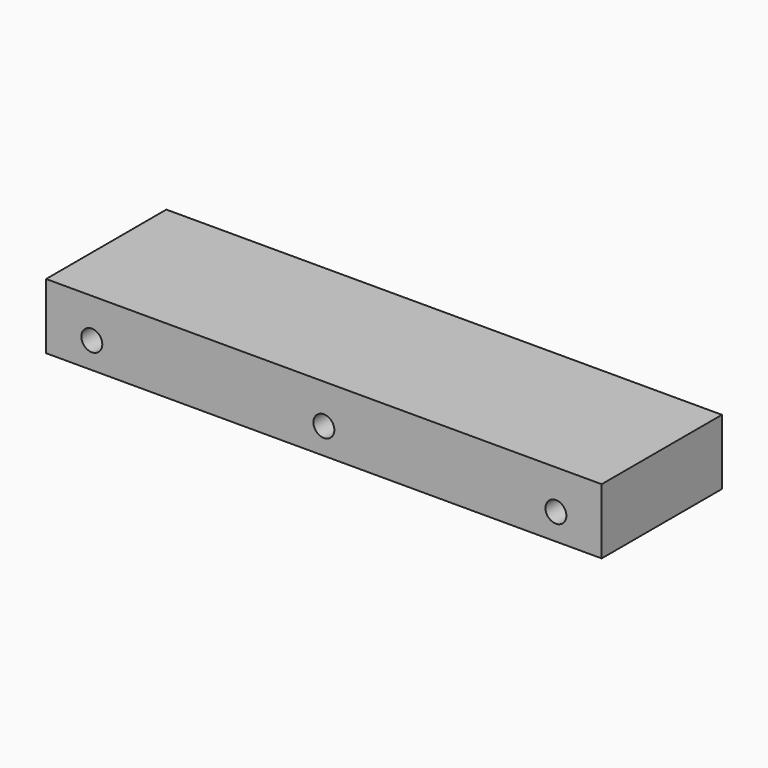
from build123d import *

# Parameters (mm, degrees)
F0_R     = 1.6
F1_DEPTH = 11.5


with BuildPart() as f1:
    # F0 (on Front) → F1 (new body, symmetric)
    with BuildSketch(Plane.XZ):
        Polygon((-42.5, -4), (42.5, -4), (42.5, 4), (42.5, 6), (-42.5, 6), (-42.5, 4), align=None)
        with Locations((-35.5, 0)):
            Circle(F0_R, mode=Mode.SUBTRACT)
        Circle(F0_R, mode=Mode.SUBTRACT)
        with Locations((35.5, 0)):
            Circle(F0_R, mode=Mode.SUBTRACT)
    extrude(amount=F1_DEPTH, both=True)


solid = f1.part
